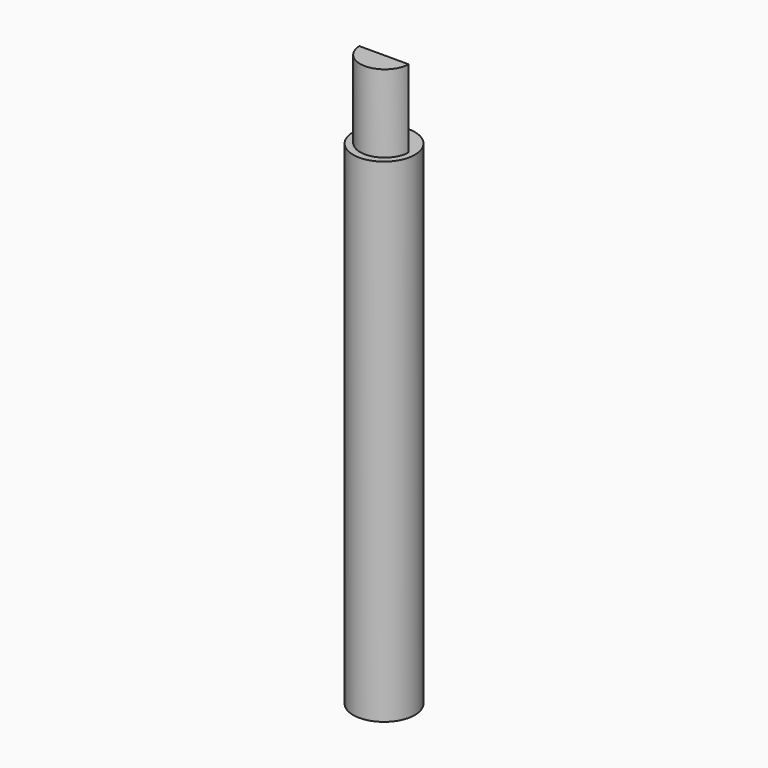
from build123d import *

# Parameters (mm, degrees)
F0_R     = 1.5875
F1_DEPTH = 25.4
F3_DEPTH = 4
F5_DEPTH = 6


with BuildPart() as f1:
    # F0 (on Top) → F1 (new body)
    with BuildSketch(Plane.XY):
        Circle(F0_R)
    extrude(amount=F1_DEPTH)

    # F2 (on face) → F3 (join)
    with BuildSketch(Plane.XY.offset(25.4)):
        with BuildLine():
            ThreePointArc((-1.269985, 0), (0, -1.224553), (1.269985, 0))
            Line((1.269985, 0), (-1.269985, 0))
        make_face()
    extrude(amount=F3_DEPTH)

    # F4 (on face) → F5 (cut)
    with BuildSketch(Plane(origin=(0, 0, 0), x_dir=(1, 0, 0), z_dir=(0, 0, -1))):
        with BuildLine():
            ThreePointArc((1.27, 0), (0, 1.27), (-1.27, 0))
            Line((-1.27, 0), (1.27, 0))
        make_face()
    extrude(amount=-F5_DEPTH, mode=Mode.SUBTRACT)


solid = f1.part
